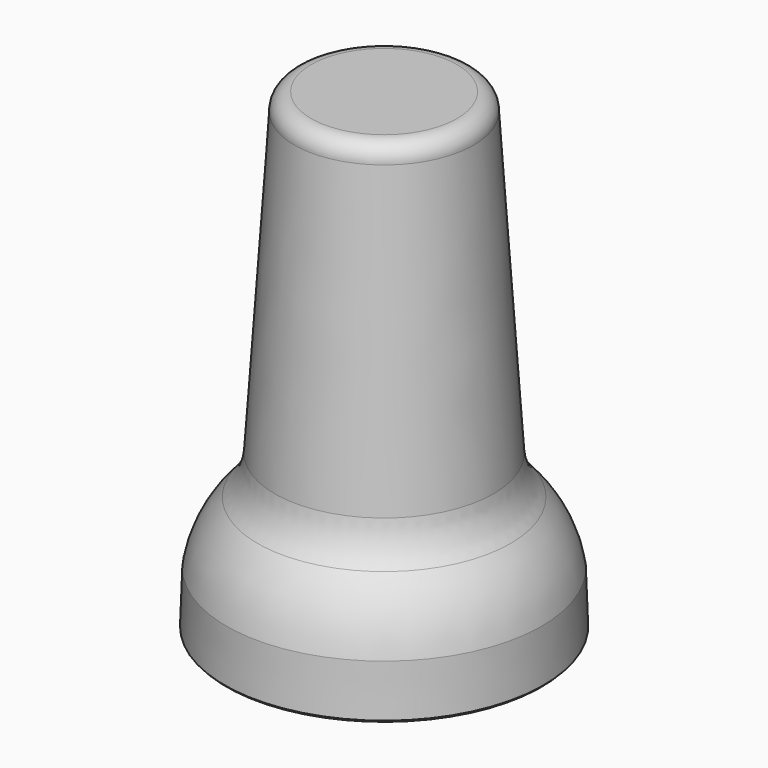
from build123d import *

# Parameters (mm, degrees)
F2_R = 5


with BuildPart() as f1:
    # F0 (on Right) → F1 (revolve)
    with BuildSketch(Plane.YZ):
        with BuildLine():
            Line((8, -38.566649), (12.832926, -38.566649))
            Line((12.832926, -38.566649), (12.996954, -38.392151))
            Line((12.996954, -38.392151), (12.850376, -34.19471))
            ThreePointArc((12.850376, -34.19471), (11.566748, -30.726), (9.06815, -27.998977))
            Line((9.06815, -27.998977), (7.319139, -1.46226))
            ThreePointArc((7.319139, -1.46226), (6.953716, -0.434518), (5.953226, 0))
            Line((5.953226, 0), (0, 0))
            Line((0, 0), (0, -8.266649))
            Line((0, -8.266649), (3.55, -8.266649))
            Line((3.55, -8.266649), (5, -30.266649))
            ThreePointArc((5, -30.266649), (7.030814, -31.89776), (7.853422, -34.369207))
            Line((7.853422, -34.369207), (8, -38.566649))
        make_face()
    revolve(axis=Axis((0, 0, -4.133324), (0, 0, 1)))

    # F2
    f2_edges = [f1.edges().sort_by_distance(p)[0] for p in [
        (0, -9.06815, -27.998977),
    ]]
    fillet(f2_edges, radius=F2_R)


solid = f1.part
